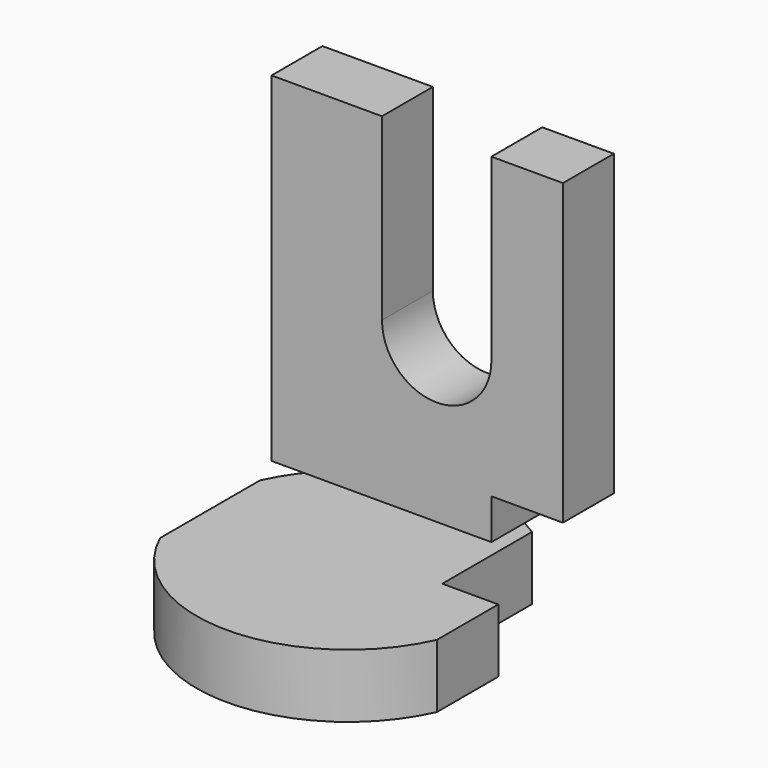
from build123d import *

# Parameters (mm, degrees)
F1_DEPTH = 25.4
F3_DEPTH = 25.4


with BuildPart() as f1:
    # F0 (on Top) → F1 (new body)
    with BuildSketch(Plane.XY):
        with BuildLine():
            Line((32.86688, 5.951313), (32.86688, 50.798145))
            ThreePointArc((32.86688, 50.798145), (-17.073622, 58.044593), (-55.136811, 24.912155))
            Line((-55.136811, 24.912155), (-55.136811, -24.912155))
            ThreePointArc((-55.136811, -24.912155), (0.142112, -60.503415), (55.253231, -24.652867))
            Line((55.253231, -24.652867), (55.253231, 5.951313))
            Line((55.253231, 5.951313), (32.86688, 5.951313))
        make_face()
    extrude(amount=F1_DEPTH)


with BuildPart() as f3:
    # F2 (on Front) → F3 (new body)
    with BuildSketch(Plane.XZ):
        with BuildLine():
            Line((-30.567043, 185.919642), (-30.567043, 50.361454))
            Line((-30.567043, 50.361454), (57.257362, 50.361454))
            Line((57.257362, 50.361454), (57.257362, 66.493675))
            Line((57.257362, 66.493675), (85.82674, 66.493675))
            Line((85.82674, 66.493675), (85.82674, 185.919642))
            Line((85.82674, 185.919642), (57.257362, 185.919642))
            Line((57.257362, 185.919642), (57.257362, 114.201643))
            ThreePointArc((57.257362, 114.201643), (35.402786, 92.347067), (13.54821, 114.201643))
            Line((13.54821, 114.201643), (13.54821, 185.919642))
            Line((13.54821, 185.919642), (-30.567043, 185.919642))
        make_face()
    extrude(amount=-F3_DEPTH)


solid = Compound([f1.part, f3.part])
